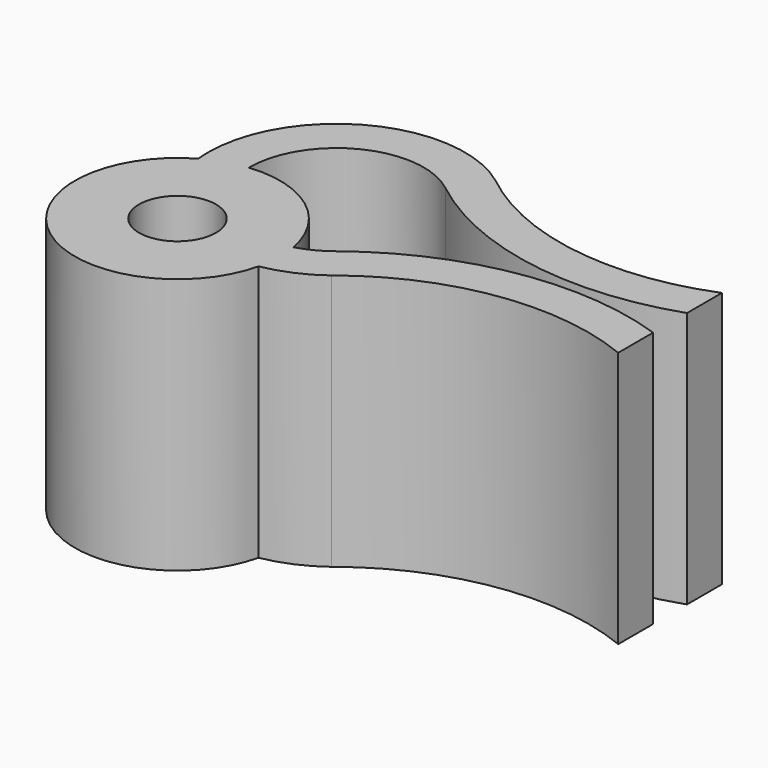
from build123d import *

# Parameters (mm, degrees)
F0_R     = 1.5
F1_DEPTH = 10


with BuildPart() as f1:
    # F0 (on Top) → F1 (new body)
    with BuildSketch(Plane.XY):
        with BuildLine():
            ThreePointArc((13, 2.526602), (7.800135, 1.906809), (3, 4))
            ThreePointArc((3, 4), (-2.236068, 4.472136), (-5, 0))
            ThreePointArc((-5, 0), (-4.993207, -0.260536), (-4.972848, -0.520364))
            ThreePointArc((-4.972848, -0.520364), (-5.4, -7.2), (0.892848, -4.919636))
            ThreePointArc((0.892848, -4.919636), (2, -4.582576), (3, -4))
            ThreePointArc((3, -4), (7.800135, -1.906809), (13, -2.526602))
            Line((13, -2.526602), (13, -0.824336))
            ThreePointArc((13, -0.824336), (7.315028, -0.36781), (2.1, -2.676663))
            ThreePointArc((2.1, -2.676663), (1.545471, -3.030849), (0.933132, -3.271665))
            ThreePointArc((0.933132, -3.271665), (-0.6, -0.8), (-3.402075, -0.020259))
            ThreePointArc((-3.402075, -0.020259), (-3.40212, -0.01013), (-3.402136, 0))
            ThreePointArc((-3.402136, 0), (-1.488295, 3.059331), (2.1, 2.676663))
            ThreePointArc((2.1, 2.676663), (7.315028, 0.36781), (13, 0.824336))
            Line((13, 0.824336), (13, 2.526602))
        make_face()
        with Locations((-3, -4)):
            Circle(F0_R, mode=Mode.SUBTRACT)
    extrude(amount=F1_DEPTH)


solid = f1.part
